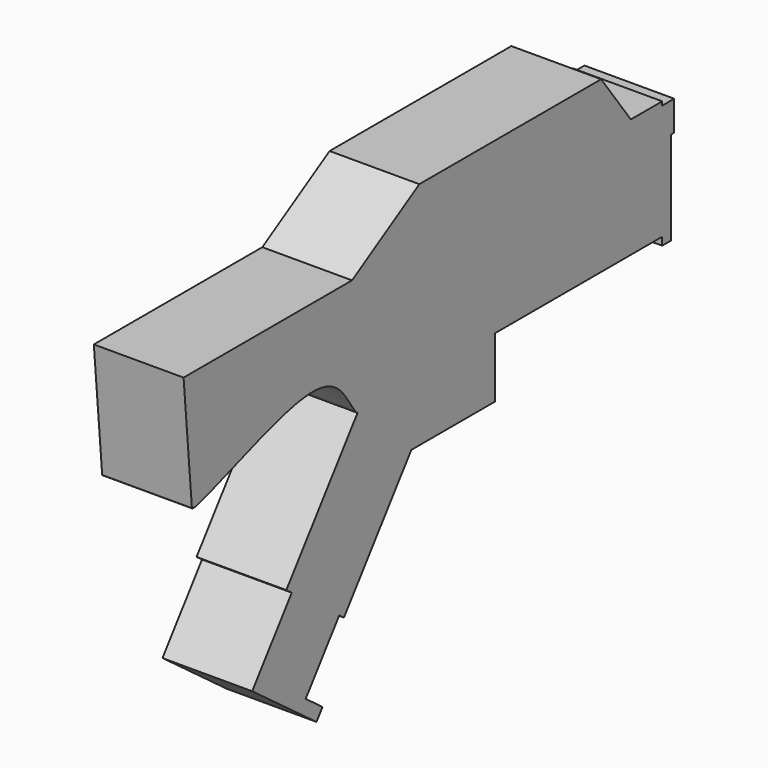
from build123d import *

# Parameters (mm, degrees)
F0_W     = 1.4742847998
F0_H     = 0.57333312
F1_DEPTH = 3


with BuildPart() as f1:
    # F0 (on Right) → F1 (new body)
    with BuildSketch(Plane.YZ):
        Polygon((-1.698607346, 5.1340078935), (-3.5528303124, 3.9847299703), (6.1070728116, 3.9847299703), (5.2846358158, 5.1340078935), align=None)
        Polygon((-5.1044222186, -5.6569299984), (-7.0882889776, -4.1832004662), (-8.7424367098, -6.4099378889), (-6.0556829391, -8.405812037), (-5.803471937, -8.0662972126), (-6.5063589486, -7.5441525967), (-5.2127020048, -5.802691255), align=None)
        with BuildLine():
            add(Edge.make_bspline(
                [(-4.3348167851, 0), (-4.2364423195, 0.0021123489), (-4.0882030321, 1.0772470307), (-7.4961711299, 2.5695337679), (-11.226912982, 0.2408694151), (-11.2615279291, 0.0163302465)],
                knots=[0.5013102478, 0.5013102478, 0.5013102478, 0.5013102478, 0.585815324, 0.7862412136, 0.994268529, 0.994268529, 0.994268529, 0.994268529], degree=3))
            Line((-4.3348167851, 0), (-7.3164367133, -4.0137192981))
            Line((-7.3164367133, -4.0137192981), (-7.0882889776, -4.1832004662))
            Line((-7.0882889776, -4.1832004662), (-5.1044222186, -5.6569299984))
            Line((-5.1044222186, -5.6569299984), (-4.9082051344, -5.802691255))
            Line((-4.9082051344, -5.802691255), (-2.092426241, -2.0122195128))
            Line((-2.092426241, -2.0122195128), (-0.597634664, 0))
            Line((-0.597634664, 0), (0, 0))
            Line((0, 0), (1.4075040817, 0))
            Line((1.4075040817, 0), (8.3907225245, 0))
            Line((8.3907225245, 0), (8.3907225245, 0.9692034218))
            Line((8.3907225245, 0.9692034218), (8.3907225245, 1.0505842511))
            Line((8.3907225245, 1.0505842511), (8.3907225245, 1.5770063037))
            Line((8.3907225245, 1.5770063037), (8.3907225245, 1.6386022326))
            Line((8.3907225245, 1.6386022326), (8.3907225245, 1.9692034218))
            Line((8.3907225245, 1.9692034218), (8.3907225245, 2.0505842511))
            Line((8.3907225245, 2.0505842511), (8.3907225245, 2.8592045419))
            Line((8.3907225245, 2.8592045419), (8.3907225245, 3.8592045419))
            Line((8.3907225245, 3.8592045419), (8.3907225245, 3.9847299703))
            Line((8.3907225245, 3.9847299703), (7.0790452883, 3.9847299703))
            Line((7.0790452883, 3.9847299703), (6.1070728116, 3.9847299703))
            Line((6.1070728116, 3.9847299703), (-3.5528303124, 3.9847299703))
            Line((-3.5528303124, 3.9847299703), (-4.5696622692, 3.9847299703))
            Line((-4.5696622692, 3.9847299703), (-11.6092774755, 3.9847299703))
            Line((-11.6092774755, 3.9847299703), (-11.2615279291, 0.0163302465))
        make_face()
        with Locations((2.736096154, 3.1992363511)):
            Rectangle(F0_W, F0_H, mode=Mode.SUBTRACT)
        with BuildLine():
            add(Edge.make_bspline(
                [(-11.2600969151, 0), (-11.1927277959, -0.1642668183), (-7.6780162659, 1.3102828545), (-5.1053837747, 1.6133906858), (-4.4766721842, -0.0030459947), (-4.3348167851, 0)],
                knots=[0, 0, 0, 0, 0.2008605807, 0.3794544265, 0.5013102478, 0.5013102478, 0.5013102478, 0.5013102478], degree=3))
            add(Edge.make_bspline(
                [(-4.3348167851, 0), (-4.2364423195, 0.0021123489), (-4.0882030321, 1.0772470307), (-7.4961711299, 2.5695337679), (-11.226912982, 0.2408694151), (-11.2615279291, 0.0163302465)],
                knots=[0.5013102478, 0.5013102478, 0.5013102478, 0.5013102478, 0.585815324, 0.7862412136, 0.994268529, 0.994268529, 0.994268529, 0.994268529], degree=3))
            Line((-11.2615279291, 0.0163302465), (-11.2600969151, 0))
        make_face()
        Polygon((-1.7584209563, 5.6723309681), (-4.5696622692, 3.9847299703), (-3.5528303124, 3.9847299703), (-1.698607346, 5.1340078935), (5.2846358158, 5.1340078935), (6.1070728116, 3.9847299703), (7.0790452883, 3.9847299703), (5.8379122056, 5.6723309681), align=None)
        Polygon((-0.597634664, 0), (-2.092426241, -2.0122195128), (0, -2.0122195128), align=None)
        Polygon((1.4075040817, 0), (0, 0), (0.5328019033, -2.0122195128), (1.4075040817, -2.0122195128), align=None)
        with BuildLine():
            add(Edge.make_bspline(
                [(-11.2615279291, 0.0163302465), (-11.2624816239, 0.0101438486), (-11.2620192642, 0.0046872836), (-11.2600969151, 0)],
                knots=[0.994268529, 0.994268529, 0.994268529, 0.994268529, 1, 1, 1, 1], degree=3))
            Line((-11.2600969151, 0), (-11.2615279291, 0.0163302465))
        make_face()
        with Locations((2.736096154, 3.1992363511)):
            Rectangle(F0_W, F0_H)
        Polygon((0, 0), (-0.597634664, 0), (0, -2.0122195128), (0.5328019033, -2.0122195128), align=None)
        Polygon((8.8907225245, 3.8592045419), (8.3907225245, 3.8592045419), (8.3907225245, 2.8592045419), (8.7538268417, 2.8592045419), (8.8907225245, 2.8592045419), align=None)
        Polygon((8.3907225245, 0.9692034218), (8.3907225245, 0), (8.3907225245, -0.2641734027), (8.7538268417, -0.2641734027), (8.7538268417, 2.8592045419), (8.3907225245, 2.8592045419), (8.3907225245, 2.0505842511), (8.3907225245, 1.9692034218), (8.3907225245, 1.6386022326), (8.3907225245, 1.5770063037), (8.3907225245, 1.0505842511), align=None)
    extrude(amount=F1_DEPTH)


solid = f1.part
